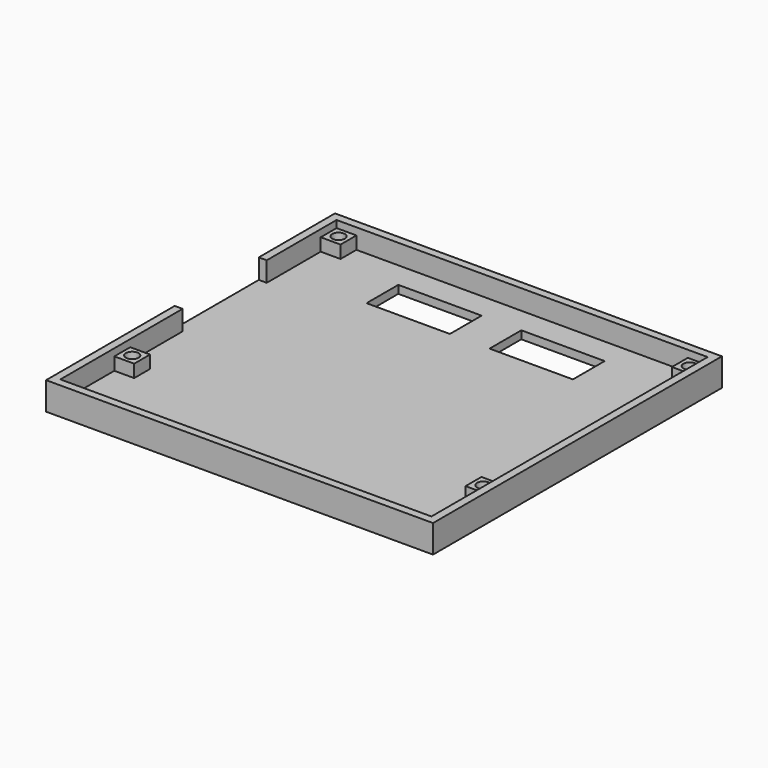
from build123d import *

# Parameters (mm, degrees)
SKETCH001_W     = 97.5
SKETCH001_H     = 91
PAD_DEPTH       = 7
SKETCH_W        = 93.5
SKETCH_H        = 87
POCKET_DEPTH    = 5
SKETCH002_W     = 5
SKETCH002_H     = 5
SKETCH002_R     = 1.6
PAD001_DEPTH    = 5
POCKET001_DEPTH = 1.8
SKETCH003_W     = 10
SKETCH003_H     = 26.5
POCKET002_DEPTH = 5
SKETCH004_W     = 21
SKETCH004_H     = 10
POCKET003_DEPTH = 7.001


with BuildPart() as part:
    # Sketch001 → Pad (new body)
    with BuildSketch(Plane.XY):
        with Locations((0, -43.5)):
            Rectangle(SKETCH001_W, SKETCH001_H)
    extrude(amount=-PAD_DEPTH)

    # Sketch → Pocket (cut)
    with BuildSketch(Plane.XY):
        with Locations((0, -43.5)):
            Rectangle(SKETCH_W, SKETCH_H)
    extrude(amount=-POCKET_DEPTH, mode=Mode.SUBTRACT)

    # Sketch002 → Pad001 (join)
    with BuildSketch(Plane.XY):
        with Locations((-44.25, -2.5)):
            Rectangle(SKETCH002_W, SKETCH002_H)
        with Locations((-44.25, -2.5)):
            Circle(SKETCH002_R, mode=Mode.SUBTRACT)
        with Locations((-44.25, -67.5)):
            Rectangle(SKETCH002_W, SKETCH002_H)
        with Locations((-44.25, -67.5)):
            Circle(SKETCH002_R, mode=Mode.SUBTRACT)
        with Locations((44.25, -67.5)):
            Rectangle(SKETCH002_W, SKETCH002_H)
        with Locations((44.25, -67.5)):
            Circle(SKETCH002_R, mode=Mode.SUBTRACT)
        with Locations((44.25, -2.5)):
            Rectangle(SKETCH002_W, SKETCH002_H)
        with Locations((44.25, -2.5)):
            Circle(SKETCH002_R, mode=Mode.SUBTRACT)
    extrude(amount=-PAD001_DEPTH)

    # Sketch → Pocket001 (cut)
    with BuildSketch(Plane.XY):
        with Locations((0, -43.5)):
            Rectangle(SKETCH_W, SKETCH_H)
    extrude(amount=-POCKET001_DEPTH, mode=Mode.SUBTRACT)

    # Sketch003 → Pocket002 (cut)
    with BuildSketch(Plane.XY):
        with Locations((-51.75, -35.25)):
            Rectangle(SKETCH003_W, SKETCH003_H)
    extrude(amount=-POCKET002_DEPTH, mode=Mode.SUBTRACT)

    # Sketch004 → Pocket003 (cut, through all)
    with BuildSketch(Plane.XY):
        with Locations((-15.5, -11.5)):
            Rectangle(SKETCH004_W, SKETCH004_H)
        with Locations((15.5, -11.5)):
            Rectangle(SKETCH004_W, SKETCH004_H)
    extrude(amount=-POCKET003_DEPTH, mode=Mode.SUBTRACT)


solid = part.part
